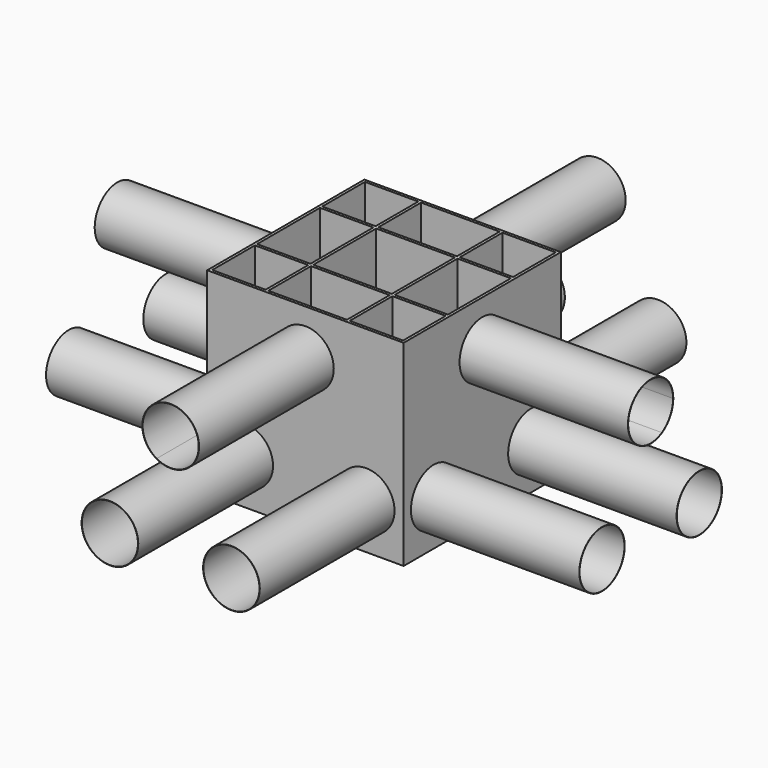
from build123d import *

# Parameters (mm, degrees)
F0_W      = 700
F0_H      = 700
F0_W_2    = 680
F0_H_2    = 680
F1_DEPTH  = 700
F2_W      = 10
F2_H      = 150
F2_W_2    = 150
F2_H_2    = 10
F2_W_3    = 280
F2_H_3    = 280
F3_DEPTH  = 600
F8_DEPTH  = 50
F9_DEPTH  = 50
F10_DEPTH = 50
F11_DEPTH = 50
F12_DEPTH = 50
F13_DEPTH = 50
F14_DEPTH = 50
F15_DEPTH = 50
F16_DEPTH = 600
F17_DEPTH = 600
F18_DEPTH = 600
F19_DEPTH = 600


with BuildPart() as f1:
    # F0 (on Top) → F1 (new body)
    with BuildSketch(Plane.XY):
        Rectangle(F0_W, F0_H)
        Rectangle(F0_W_2, F0_H_2, mode=Mode.SUBTRACT)
    extrude(amount=-F1_DEPTH)



with BuildPart() as f3:
    # F2 (on Top) → F3 (new body)
    with BuildSketch(Plane.XY):
        with Locations((-145, 225)):
            Rectangle(F2_W, F2_H)
        with Locations((-225, 145)):
            Rectangle(F2_W_2, F2_H_2)
        with Locations((-145, 145)):
            Rectangle(F2_W, F2_H_2)
        with Locations((0, 145)):
            Rectangle(F2_W_3, F2_H_2)
        with Locations((-145, 0)):
            Rectangle(F2_W, F2_H_3)
        with Locations((145, 225)):
            Rectangle(F2_W, F2_H)
        with Locations((225, 145)):
            Rectangle(F2_W_2, F2_H_2)
        with Locations((145, 145)):
            Rectangle(F2_W, F2_H_2)
        with Locations((145, -225)):
            Rectangle(F2_W, F2_H)
        with Locations((225, -145)):
            Rectangle(F2_W_2, F2_H_2)
        with Locations((145, -145)):
            Rectangle(F2_W, F2_H_2)
        with Locations((145, 0)):
            Rectangle(F2_W, F2_H_3)
        with Locations((0, -145)):
            Rectangle(F2_W_3, F2_H_2)
        with Locations((-225, -145)):
            Rectangle(F2_W_2, F2_H_2)
        with Locations((-145, -225)):
            Rectangle(F2_W, F2_H)
        with Locations((-145, -145)):
            Rectangle(F2_W, F2_H_2)
    extrude(amount=-F3_DEPTH)


with BuildPart() as f8:
    # F8 (new): a face of the model
    f8_faces = [f3.part.faces().sort_by_distance(p)[0] for p in [
        (-300, 145, -300),
    ]]
    extrude(f8_faces, amount=F8_DEPTH)


with BuildPart() as f9:
    # F9 (new): a face of the model
    f9_faces = [f3.part.faces().sort_by_distance(p)[0] for p in [
        (-145, -300, -300),
    ]]
    extrude(f9_faces, amount=F9_DEPTH)


with BuildPart() as f1_1:
    add(f1.part)
    # F10 (add): a face of the model
    f10_faces = [f3.part.faces().sort_by_distance(p)[0] for p in [
        (-300, -145, -300),
    ]]

    add(f3.part)  # F10 merges F3
    extrude(f10_faces, amount=F10_DEPTH)


with BuildPart() as f11:
    # F11 (new): a face of the model
    f11_faces = [f1_1.part.faces().sort_by_distance(p)[0] for p in [
        (145, -300, -300),
    ]]
    extrude(f11_faces, amount=F11_DEPTH)


with BuildPart() as f12:
    # F12 (new): a face of the model
    f12_faces = [f1_1.part.faces().sort_by_distance(p)[0] for p in [
        (300, -145, -300),
    ]]
    extrude(f12_faces, amount=F12_DEPTH)


with BuildPart() as f13:
    # F13 (new): a face of the model
    f13_faces = [f1_1.part.faces().sort_by_distance(p)[0] for p in [
        (300, 145, -300),
    ]]
    extrude(f13_faces, amount=F13_DEPTH)


with BuildPart() as f14:
    # F14 (new): a face of the model
    f14_faces = [f1_1.part.faces().sort_by_distance(p)[0] for p in [
        (145, 300, -300),
    ]]
    extrude(f14_faces, amount=F14_DEPTH)


with BuildPart() as f15:
    # F15 (new): a face of the model
    f15_faces = [f1_1.part.faces().sort_by_distance(p)[0] for p in [
        (-145, 300, -300),
    ]]
    extrude(f15_faces, amount=F15_DEPTH)


with BuildPart() as f1_2:
    add(f1_1.part)

    add(f12.part)  # F16 merges F12

    add(f13.part)  # F16 merges F13
    # F4 (on face) → F16 (join)
    with BuildSketch(Plane.YZ.offset(350)):
        with BuildLine():
            ThreePointArc((100, -162.5), (86.6025403784, -212.5), (50, -249.1025403784))
            Line((50, -249.1025403784), (50.5, -249.9685657822))
            ThreePointArc((50.5, -249.9685657822), (87.4685657822, -213), (101, -162.5))
            ThreePointArc((101, -162.5), (-50.5, -75.0314342178), (-50.5, -249.9685657822))
            Line((-50.5, -249.9685657822), (-50, -249.1025403784))
            ThreePointArc((-50, -249.1025403784), (-50, -75.8974596216), (100, -162.5))
        make_face()
        with BuildLine():
            ThreePointArc((317.5063509461, -537.5), (267.0063509461, -450.0314342178), (166.0063509461, -450.0314342178))
            Line((166.0063509461, -450.0314342178), (166.5063509461, -450.8974596216))
            ThreePointArc((166.5063509461, -450.8974596216), (266.5063509461, -450.8974596216), (316.5063509461, -537.5))
            ThreePointArc((316.5063509461, -537.5), (216.5063509461, -637.5), (116.5063509461, -537.5))
            Line((116.5063509461, -537.5), (115.5063509461, -537.5))
            ThreePointArc((115.5063509461, -537.5), (216.5063509461, -638.5), (317.5063509461, -537.5))
        make_face()
        with BuildLine():
            Line((166.5063509461, -450.8974596216), (166.0063509461, -450.0314342178))
            ThreePointArc((166.0063509461, -450.0314342178), (129.0377851639, -487), (115.5063509461, -537.5))
            Line((115.5063509461, -537.5), (116.5063509461, -537.5))
            ThreePointArc((116.5063509461, -537.5), (129.9038105677, -487.5), (166.5063509461, -450.8974596216))
        make_face()
        with BuildLine():
            Line((50.5, -249.9685657822), (50, -249.1025403784))
            ThreePointArc((50, -249.1025403784), (0, -262.5), (-50, -249.1025403784))
            Line((-50, -249.1025403784), (-50.5, -249.9685657822))
            ThreePointArc((-50.5, -249.9685657822), (0, -263.5), (50.5, -249.9685657822))
        make_face()
        with BuildLine():
            Line((-166.5063509461, -450.8974596216), (-166.0063509461, -450.0314342178))
            ThreePointArc((-166.0063509461, -450.0314342178), (-303.9749167283, -588), (-115.5063509461, -537.5))
            Line((-115.5063509461, -537.5), (-116.5063509461, -537.5))
            ThreePointArc((-116.5063509461, -537.5), (-303.1088913246, -587.5), (-166.5063509461, -450.8974596216))
        make_face()
        with BuildLine():
            ThreePointArc((-115.5063509461, -537.5), (-129.0377851639, -487), (-166.0063509461, -450.0314342178))
            Line((-166.0063509461, -450.0314342178), (-166.5063509461, -450.8974596216))
            ThreePointArc((-166.5063509461, -450.8974596216), (-129.9038105677, -487.5), (-116.5063509461, -537.5))
            Line((-116.5063509461, -537.5), (-115.5063509461, -537.5))
        make_face()
    extrude(amount=F16_DEPTH)

    add(f9.part)  # F17 merges F9

    add(f11.part)  # F17 merges F11
    # F5 (on face) → F17 (join)
    with BuildSketch(Plane.XZ.offset(350)):
        with BuildLine():
            Line((50.5, -249.9685657822), (50, -249.1025403784))
            ThreePointArc((50, -249.1025403784), (0, -262.5), (-50, -249.1025403784))
            Line((-50, -249.1025403784), (-50.5, -249.9685657822))
            ThreePointArc((-50.5, -249.9685657822), (0, -263.5), (50.5, -249.9685657822))
        make_face()
        with BuildLine():
            ThreePointArc((100, -162.5), (86.6025403784, -212.5), (50, -249.1025403784))
            Line((50, -249.1025403784), (50.5, -249.9685657822))
            ThreePointArc((50.5, -249.9685657822), (87.4685657822, -213), (101, -162.5))
            ThreePointArc((101, -162.5), (-50.5, -75.0314342178), (-50.5, -249.9685657822))
            Line((-50.5, -249.9685657822), (-50, -249.1025403784))
            ThreePointArc((-50, -249.1025403784), (-50, -75.8974596216), (100, -162.5))
        make_face()
        with BuildLine():
            Line((-166.5063509461, -450.8974596216), (-166.0063509461, -450.0314342178))
            ThreePointArc((-166.0063509461, -450.0314342178), (-303.9749167283, -588), (-115.5063509461, -537.5))
            Line((-115.5063509461, -537.5), (-116.5063509461, -537.5))
            ThreePointArc((-116.5063509461, -537.5), (-303.1088913246, -587.5), (-166.5063509461, -450.8974596216))
        make_face()
        with BuildLine():
            ThreePointArc((-115.5063509461, -537.5), (-129.0377851639, -487), (-166.0063509461, -450.0314342178))
            Line((-166.0063509461, -450.0314342178), (-166.5063509461, -450.8974596216))
            ThreePointArc((-166.5063509461, -450.8974596216), (-129.9038105677, -487.5), (-116.5063509461, -537.5))
            Line((-116.5063509461, -537.5), (-115.5063509461, -537.5))
        make_face()
        with BuildLine():
            ThreePointArc((317.5063509461, -537.5), (267.0063509461, -450.0314342178), (166.0063509461, -450.0314342178))
            Line((166.0063509461, -450.0314342178), (166.5063509461, -450.8974596216))
            ThreePointArc((166.5063509461, -450.8974596216), (266.5063509461, -450.8974596216), (316.5063509461, -537.5))
            ThreePointArc((316.5063509461, -537.5), (216.5063509461, -637.5), (116.5063509461, -537.5))
            Line((116.5063509461, -537.5), (115.5063509461, -537.5))
            ThreePointArc((115.5063509461, -537.5), (216.5063509461, -638.5), (317.5063509461, -537.5))
        make_face()
        with BuildLine():
            Line((166.5063509461, -450.8974596216), (166.0063509461, -450.0314342178))
            ThreePointArc((166.0063509461, -450.0314342178), (129.0377851639, -487), (115.5063509461, -537.5))
            Line((115.5063509461, -537.5), (116.5063509461, -537.5))
            ThreePointArc((116.5063509461, -537.5), (129.9038105677, -487.5), (166.5063509461, -450.8974596216))
        make_face()
    extrude(amount=F17_DEPTH)

    add(f8.part)  # F18 merges F8
    # F6 (on face) → F18 (join)
    with BuildSketch(Plane(origin=(-350, 0, 0), x_dir=(0, -1, 0), z_dir=(-1, 0, 0))):
        with BuildLine():
            ThreePointArc((100, -162.5), (86.6025403784, -212.5), (50, -249.1025403784))
            Line((50, -249.1025403784), (50.5, -249.9685657822))
            ThreePointArc((50.5, -249.9685657822), (87.4685657822, -213), (101, -162.5))
            ThreePointArc((101, -162.5), (-50.5, -75.0314342178), (-50.5, -249.9685657822))
            Line((-50.5, -249.9685657822), (-50, -249.1025403784))
            ThreePointArc((-50, -249.1025403784), (-50, -75.8974596216), (100, -162.5))
        make_face()
        with BuildLine():
            Line((50.5, -249.9685657822), (50, -249.1025403784))
            ThreePointArc((50, -249.1025403784), (0, -262.5), (-50, -249.1025403784))
            Line((-50, -249.1025403784), (-50.5, -249.9685657822))
            ThreePointArc((-50.5, -249.9685657822), (0, -263.5), (50.5, -249.9685657822))
        make_face()
        with BuildLine():
            ThreePointArc((317.5063509461, -537.5), (267.0063509461, -450.0314342178), (166.0063509461, -450.0314342178))
            Line((166.0063509461, -450.0314342178), (166.5063509461, -450.8974596216))
            ThreePointArc((166.5063509461, -450.8974596216), (266.5063509461, -450.8974596216), (316.5063509461, -537.5))
            ThreePointArc((316.5063509461, -537.5), (216.5063509461, -637.5), (116.5063509461, -537.5))
            Line((116.5063509461, -537.5), (115.5063509461, -537.5))
            ThreePointArc((115.5063509461, -537.5), (216.5063509461, -638.5), (317.5063509461, -537.5))
        make_face()
        with BuildLine():
            Line((166.5063509461, -450.8974596216), (166.0063509461, -450.0314342178))
            ThreePointArc((166.0063509461, -450.0314342178), (129.0377851639, -487), (115.5063509461, -537.5))
            Line((115.5063509461, -537.5), (116.5063509461, -537.5))
            ThreePointArc((116.5063509461, -537.5), (129.9038105677, -487.5), (166.5063509461, -450.8974596216))
        make_face()
        with BuildLine():
            Line((-166.5063509461, -450.8974596216), (-166.0063509461, -450.0314342178))
            ThreePointArc((-166.0063509461, -450.0314342178), (-303.9749167283, -588), (-115.5063509461, -537.5))
            Line((-115.5063509461, -537.5), (-116.5063509461, -537.5))
            ThreePointArc((-116.5063509461, -537.5), (-303.1088913246, -587.5), (-166.5063509461, -450.8974596216))
        make_face()
        with BuildLine():
            ThreePointArc((-115.5063509461, -537.5), (-129.0377851639, -487), (-166.0063509461, -450.0314342178))
            Line((-166.0063509461, -450.0314342178), (-166.5063509461, -450.8974596216))
            ThreePointArc((-166.5063509461, -450.8974596216), (-129.9038105677, -487.5), (-116.5063509461, -537.5))
            Line((-116.5063509461, -537.5), (-115.5063509461, -537.5))
        make_face()
    extrude(amount=F18_DEPTH)

    add(f14.part)  # F19 merges F14

    add(f15.part)  # F19 merges F15
    # F7 (on face) → F19 (join)
    with BuildSketch(Plane(origin=(0, 350, 0), x_dir=(-1, 0, 0), z_dir=(0, 1, 0))):
        with BuildLine():
            Line((50.5, -249.9685657822), (50, -249.1025403784))
            ThreePointArc((50, -249.1025403784), (0, -262.5), (-50, -249.1025403784))
            Line((-50, -249.1025403784), (-50.5, -249.9685657822))
            ThreePointArc((-50.5, -249.9685657822), (0, -263.5), (50.5, -249.9685657822))
        make_face()
        with BuildLine():
            ThreePointArc((100, -162.5), (86.6025403784, -212.5), (50, -249.1025403784))
            Line((50, -249.1025403784), (50.5, -249.9685657822))
            ThreePointArc((50.5, -249.9685657822), (87.4685657822, -213), (101, -162.5))
            ThreePointArc((101, -162.5), (-50.5, -75.0314342178), (-50.5, -249.9685657822))
            Line((-50.5, -249.9685657822), (-50, -249.1025403784))
            ThreePointArc((-50, -249.1025403784), (-50, -75.8974596216), (100, -162.5))
        make_face()
        with BuildLine():
            Line((-166.5063509461, -450.8974596216), (-166.0063509461, -450.0314342178))
            ThreePointArc((-166.0063509461, -450.0314342178), (-303.9749167283, -588), (-115.5063509461, -537.5))
            Line((-115.5063509461, -537.5), (-116.5063509461, -537.5))
            ThreePointArc((-116.5063509461, -537.5), (-303.1088913246, -587.5), (-166.5063509461, -450.8974596216))
        make_face()
        with BuildLine():
            ThreePointArc((-115.5063509461, -537.5), (-129.0377851639, -487), (-166.0063509461, -450.0314342178))
            Line((-166.0063509461, -450.0314342178), (-166.5063509461, -450.8974596216))
            ThreePointArc((-166.5063509461, -450.8974596216), (-129.9038105677, -487.5), (-116.5063509461, -537.5))
            Line((-116.5063509461, -537.5), (-115.5063509461, -537.5))
        make_face()
        with BuildLine():
            Line((166.5063509461, -450.8974596216), (166.0063509461, -450.0314342178))
            ThreePointArc((166.0063509461, -450.0314342178), (129.0377851639, -487), (115.5063509461, -537.5))
            Line((115.5063509461, -537.5), (116.5063509461, -537.5))
            ThreePointArc((116.5063509461, -537.5), (129.9038105677, -487.5), (166.5063509461, -450.8974596216))
        make_face()
        with BuildLine():
            ThreePointArc((317.5063509461, -537.5), (267.0063509461, -450.0314342178), (166.0063509461, -450.0314342178))
            Line((166.0063509461, -450.0314342178), (166.5063509461, -450.8974596216))
            ThreePointArc((166.5063509461, -450.8974596216), (266.5063509461, -450.8974596216), (316.5063509461, -537.5))
            ThreePointArc((316.5063509461, -537.5), (216.5063509461, -637.5), (116.5063509461, -537.5))
            Line((116.5063509461, -537.5), (115.5063509461, -537.5))
            ThreePointArc((115.5063509461, -537.5), (216.5063509461, -638.5), (317.5063509461, -537.5))
        make_face()
    extrude(amount=F19_DEPTH)


solid = f1_2.part
